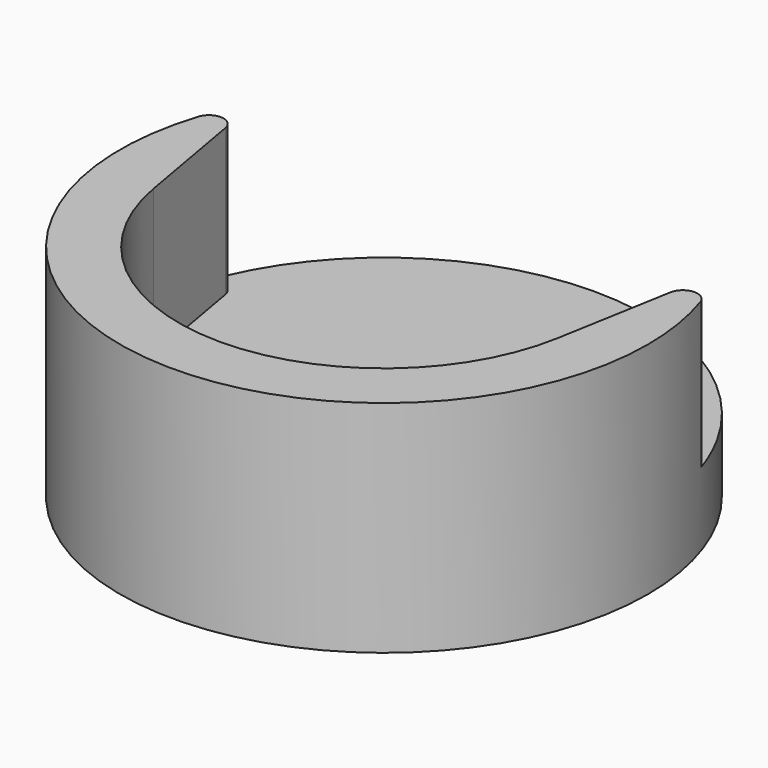
from build123d import *

# Parameters (mm, degrees)
F1_DEPTH = 5
F2_DEPTH = 15
F3_R     = 1


with BuildPart() as f1:
    # F0 (on Top) → F1 (new body)
    with BuildSketch(Plane.XY):
        with BuildLine():
            ThreePointArc((-13.7873085422, -2.4310744873), (0, -14), (13.7873085422, -2.4310744873))
            ThreePointArc((13.7873085422, -2.4310744873), (13.9467257733, -1.2201803985), (14, 0))
            ThreePointArc((14, 0), (-1.2201803985, 13.9467257733), (-13.7873085422, -2.4310744873))
        make_face()
        with BuildLine():
            Line((13.7873085422, -2.4310744873), (15.7519134057, 8.7107533578))
            ThreePointArc((15.7519134057, 8.7107533578), (0, 18), (-15.7519134057, 8.7107533578))
            Line((-15.7519134057, 8.7107533578), (-13.7873085422, -2.4310744873))
            ThreePointArc((-13.7873085422, -2.4310744873), (-1.2201803985, 13.9467257733), (14, 0))
            ThreePointArc((14, 0), (13.9467257733, -1.2201803985), (13.7873085422, -2.4310744873))
        make_face()
    extrude(amount=F1_DEPTH)

    # F0 (on Top) → F2 (join)
    with BuildSketch(Plane.XY):
        with BuildLine():
            ThreePointArc((-15.7519134057, 8.7107533578), (-4.4980861874, -17.4289190902), (18, 0))
            ThreePointArc((18, 0), (17.4289190902, 4.4980861874), (15.7519134057, 8.7107533578))
            Line((15.7519134057, 8.7107533578), (13.7873085422, -2.4310744873))
            ThreePointArc((13.7873085422, -2.4310744873), (0, -14), (-13.7873085422, -2.4310744873))
            Line((-13.7873085422, -2.4310744873), (-15.7519134057, 8.7107533578))
        make_face()
    extrude(amount=F2_DEPTH)

    # F3
    f3_edges = [f1.edges().sort_by_distance(p)[0] for p in [
        (-15.751913, 8.710753, 10),
        (15.751913, 8.710753, 10),
    ]]
    fillet(f3_edges, radius=F3_R)


solid = f1.part
